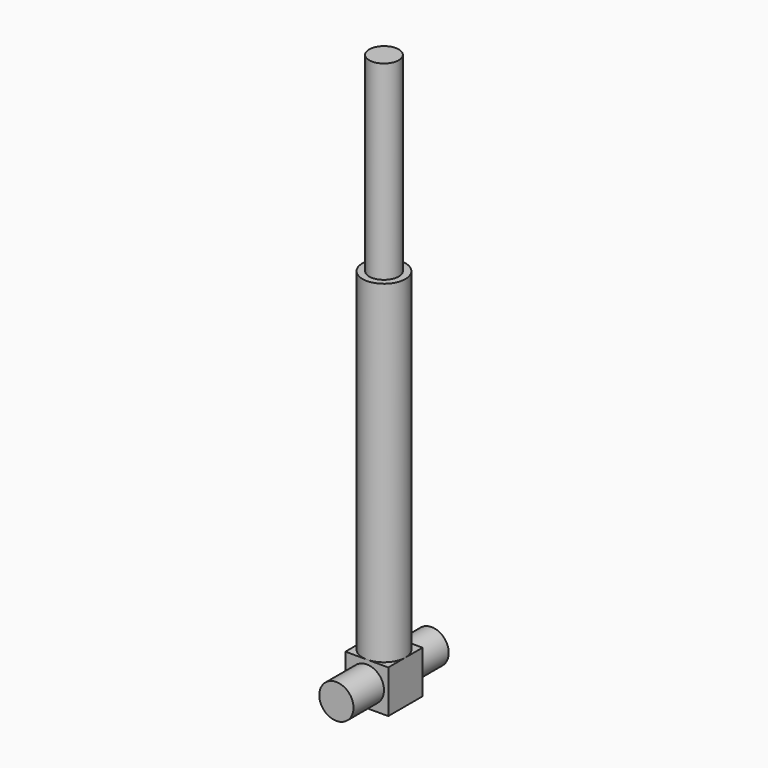
from build123d import *

# Parameters (mm, degrees)
F0_R     = 22.5
F1_DEPTH = 350
F2_T     = -7
F3_R     = 15.5
F4_DEPTH = 200
F5_W     = 45
F5_H     = 45
F6_DEPTH = 45
F7_R     = 18
F8_DEPTH = 62.5


with BuildPart() as f1:
    # F0 (on Top) → F1 (new body)
    with BuildSketch(Plane.XY):
        with Locations((41.038834, 0)):
            Circle(F0_R)
    extrude(amount=F1_DEPTH)

    # F2
    f2_openings = [f1.faces().sort_by_distance(p)[0] for p in [
        (41.038834, 0, 350),
    ]]
    offset(amount=F2_T, openings=f2_openings)

    # F5 (on face) → F6 (join)
    with BuildSketch(Plane(origin=(0, 0, 0), x_dir=(1, 0, 0), z_dir=(0, 0, -1))):
        with Locations((41.038834, 0)):
            Rectangle(F5_W, F5_H)
    extrude(amount=F6_DEPTH)

    # F7 (on Front) → F8 (join, symmetric)
    with BuildSketch(Plane.XZ):
        with Locations((41.038834, -22.5)):
            Circle(F7_R)
    extrude(amount=F8_DEPTH, both=True)


with BuildPart() as f4:
    # F3 (on face) → F4 (new body, symmetric)
    with BuildSketch(Plane.XY.offset(350)):
        with Locations((41.038834, 0)):
            Circle(F3_R)
    extrude(amount=F4_DEPTH, both=True)


solid = Compound([f1.part, f4.part])
